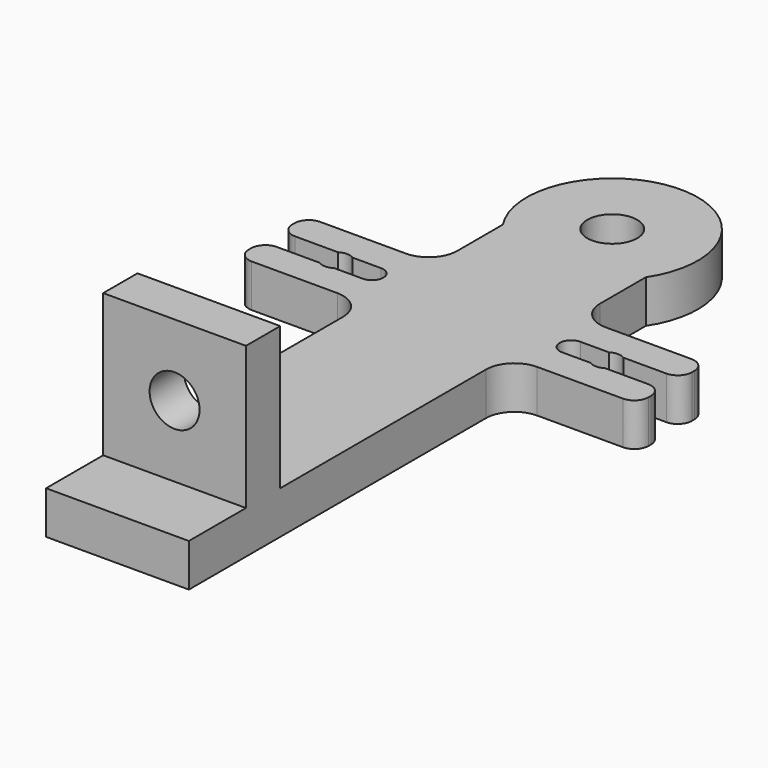
from build123d import *

# Parameters (mm, degrees)
F0_R     = 1.75
F1_DEPTH = 3
F2_W     = 10
F2_H     = 3
F3_DEPTH = 10
F4_R     = 1.75
F5_DEPTH = 44.317625


with BuildPart() as f1:
    # F0 (on Top) → F1 (new body)
    with BuildSketch(Plane.XY):
        with BuildLine():
            Line((-5, 26), (-5, 0))
            Line((-5, 0), (5, 0))
            Line((5, 0), (5, 26))
            ThreePointArc((5, 26), (5.585786, 27.414214), (7, 28))
            Line((7, 28), (13, 28))
            ThreePointArc((13, 28), (13.707107, 28.292893), (14, 29))
            Line((14, 29), (14, 29.2))
            ThreePointArc((14, 29.2), (13.707107, 29.907107), (13, 30.2))
            Line((13, 30.2), (10, 30.2))
            ThreePointArc((10, 30.2), (9.487652, 30.05), (8.975305, 30.2))
            Line((8.975305, 30.2), (6.975305, 30.2))
            ThreePointArc((6.975305, 30.2), (6.175305, 31), (6.975305, 31.8))
            Line((6.975305, 31.8), (8.975305, 31.8))
            ThreePointArc((8.975305, 31.8), (9.487652, 31.95), (10, 31.8))
            Line((10, 31.8), (13, 31.8))
            ThreePointArc((13, 31.8), (13.707107, 32.092893), (14, 32.8))
            Line((14, 32.8), (14, 33))
            ThreePointArc((14, 33), (13.707107, 33.707107), (13, 34))
            Line((13, 34), (7, 34))
            ThreePointArc((7, 34), (5.585786, 34.585786), (5, 36))
            Line((5, 36), (5, 40))
            ThreePointArc((5, 40), (0, 49.316625), (-5, 40))
            Line((-5, 40), (-5, 36))
            ThreePointArc((-5, 36), (-5.585786, 34.585786), (-7, 34))
            Line((-7, 34), (-13, 34))
            ThreePointArc((-13, 34), (-13.707107, 33.707107), (-14, 33))
            Line((-14, 33), (-14, 32.8))
            ThreePointArc((-14, 32.8), (-13.707107, 32.092893), (-13, 31.8))
            Line((-13, 31.8), (-10, 31.8))
            ThreePointArc((-10, 31.8), (-9.487652, 31.95), (-8.975305, 31.8))
            Line((-8.975305, 31.8), (-6.975305, 31.8))
            ThreePointArc((-6.975305, 31.8), (-6.175305, 31), (-6.975305, 30.2))
            Line((-6.975305, 30.2), (-8.975305, 30.2))
            ThreePointArc((-8.975305, 30.2), (-9.487652, 30.05), (-10, 30.2))
            Line((-10, 30.2), (-13, 30.2))
            ThreePointArc((-13, 30.2), (-13.707107, 29.907107), (-14, 29.2))
            Line((-14, 29.2), (-14, 29))
            ThreePointArc((-14, 29), (-13.707107, 28.292893), (-13, 28))
            Line((-13, 28), (-7, 28))
            ThreePointArc((-7, 28), (-5.585786, 27.414214), (-5, 26))
        make_face()
        with Locations((0, 43.316625)):
            Circle(F0_R, mode=Mode.SUBTRACT)
    extrude(amount=F1_DEPTH)

    # F2 (on face) → F3 (join)
    with BuildSketch(Plane.XY.offset(3)):
        with Locations((0, 6.5)):
            Rectangle(F2_W, F2_H)
    extrude(amount=F3_DEPTH)

    # F4 (on face) → F5 (cut, through all)
    with BuildSketch(Plane.XZ.offset(-5)):
        with Locations((0, 8)):
            Circle(F4_R)
    extrude(amount=-F5_DEPTH, mode=Mode.SUBTRACT)


solid = f1.part
